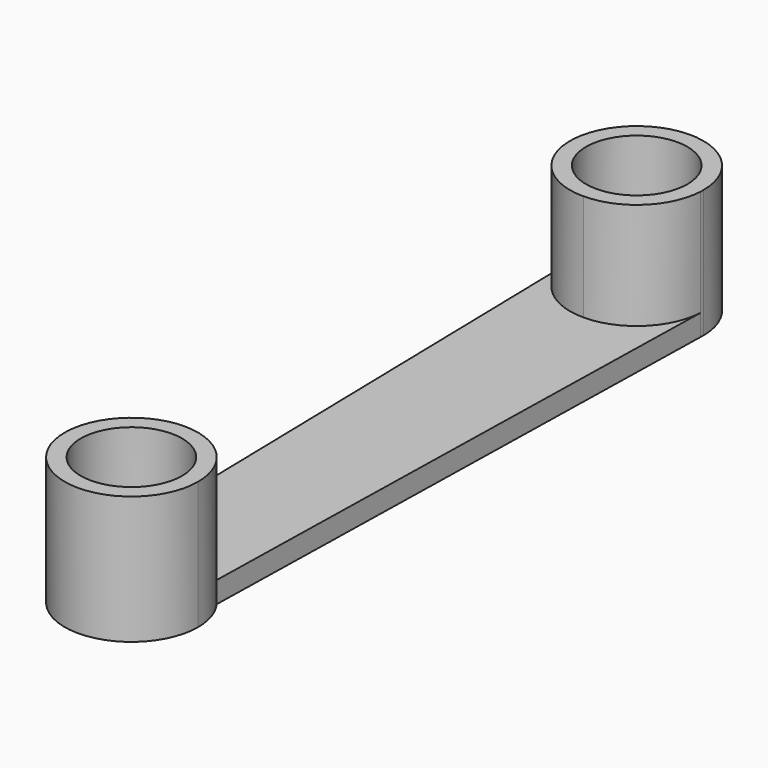
from build123d import *

# Parameters (mm, degrees)
F1_DEPTH = 2
F0_R     = 4.75
F2_DEPTH = 12


with BuildPart() as f1:
    # F0 (on Top) → F1 (new body)
    with BuildSketch(Plane.XY):
        with BuildLine():
            Line((-6.2413531605, 22.5833728044), (-5.0444387575, -32.6162494679))
            ThreePointArc((-5.0444387575, -32.6162494679), (-2.8284243086, -30.7328789341), (0, -30.0562545657))
            Line((0, -30.0562545657), (0, 16.6620226577))
            ThreePointArc((0, 16.6620226577), (-4.3016530786, 18.3778986197), (-6.2413531605, 22.5833728044))
        make_face()
        with BuildLine():
            ThreePointArc((0, -30.0562545657), (2.8284243086, -30.7328789341), (5.0444387575, -32.6162494679))
            Line((5.0444387575, -32.6162494679), (6.2413531605, 22.5833728044))
            ThreePointArc((6.2413531605, 22.5833728044), (4.3016530786, 18.3778986197), (0, 16.6620226577))
            Line((0, 16.6620226577), (0, -30.0562545657))
        make_face()
    extrude(amount=F1_DEPTH)



with BuildPart() as f1b:
    # F0 (on Top) → F1, piece 2 (new body)
    with BuildSketch(Plane.XY):
        with Locations((0, -36.3062545657)):
            Circle(F0_R)
    extrude(amount=F1_DEPTH)


with BuildPart() as f1_1:
    add(f1.part)

    add(f1b.part)  # F2 merges F1b
    # F0 (on Top) → F2 (join)
    with BuildSketch(Plane.XY):
        with BuildLine():
            ThreePointArc((0, 16.6620226577), (4.3016530786, 18.3778986197), (6.2413531605, 22.5833728044))
            ThreePointArc((6.2413531605, 22.5833728044), (6.2478379162, 22.7476408659), (6.25, 22.9120226577))
            ThreePointArc((6.25, 22.9120226577), (-0.1643817918, 29.1598605738), (-6.2413531605, 22.5833728044))
            ThreePointArc((-6.2413531605, 22.5833728044), (-4.3016530786, 18.3778986197), (0, 16.6620226577))
        make_face()
        with Locations((0, 22.9120226577)):
            Circle(F0_R, mode=Mode.SUBTRACT)
        with BuildLine():
            ThreePointArc((-5.0444387575, -32.6162494679), (-1.9409736945, -42.2472242776), (6.25, -36.3062545657))
            ThreePointArc((6.25, -36.3062545657), (5.9409697119, -34.3652808712), (5.0444387575, -32.6162494679))
            ThreePointArc((5.0444387575, -32.6162494679), (2.8284243086, -30.7328789341), (0, -30.0562545657))
            ThreePointArc((0, -30.0562545657), (-2.8284243086, -30.7328789341), (-5.0444387575, -32.6162494679))
        make_face()
        with Locations((0, -36.3062545657)):
            Circle(F0_R, mode=Mode.SUBTRACT)
    extrude(amount=F2_DEPTH)


solid = f1_1.part
